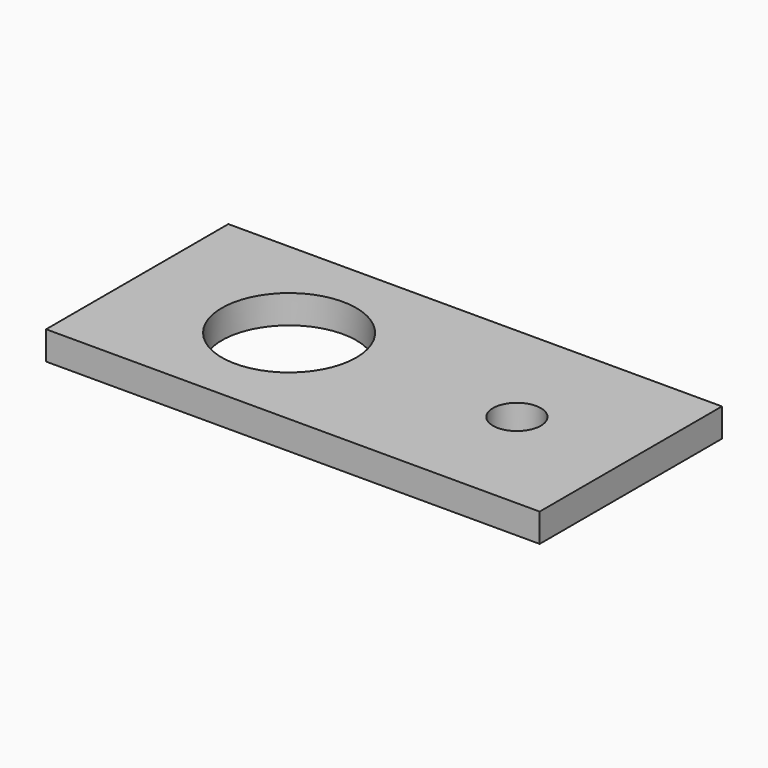
from build123d import *

# Parameters (mm, degrees)
F0_W     = 165.1
F0_H     = 76.2
F0_R     = 22.479
F0_R_2   = 8.001
F1_DEPTH = 9.525


with BuildPart() as f1:
    # F0 (on Top) → F1 (new body)
    with BuildSketch(Plane.XY):
        Rectangle(F0_W, F0_H)
        with Locations((-31.75, 0)):
            Circle(F0_R, mode=Mode.SUBTRACT)
        with Locations((44.45, 0)):
            Circle(F0_R_2, mode=Mode.SUBTRACT)
    extrude(amount=F1_DEPTH)


solid = f1.part
